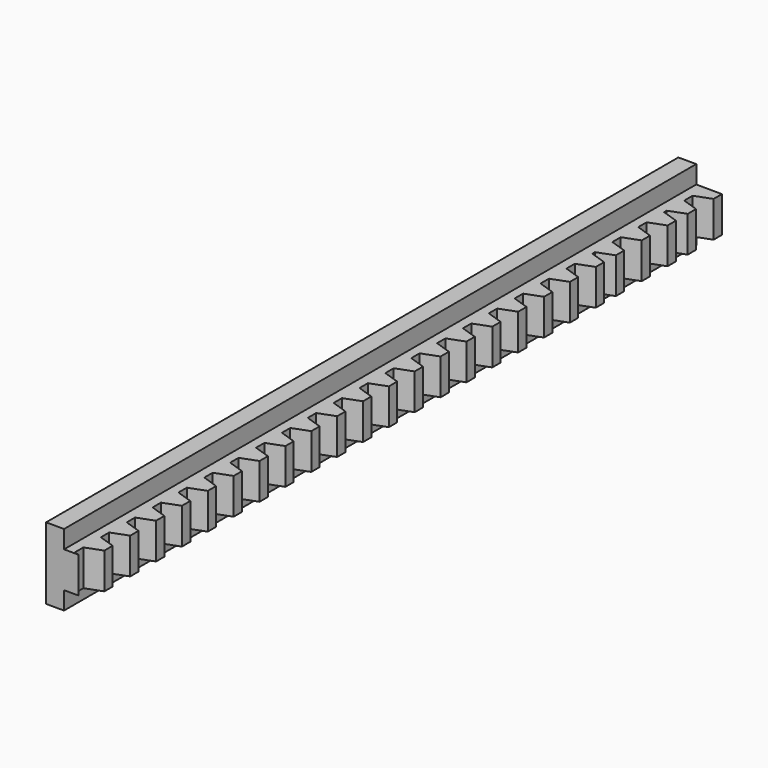
from build123d import *

# Parameters (mm, degrees)
F1_DEPTH = 10
F3_DEPTH = 5


with BuildPart() as f1:
    # F0 (on Top) → F1 (new body)
    with BuildSketch(Plane.XY):
        Polygon((7.192049, 114.375856), (0, 114.440956), (0, -105.559044), (4.02688, -105.559044), (2.692049, -105.109864), (2.692049, -102.209864), (7.192049, -100.524144), (7.192049, -97.624144), (2.692049, -96.109864), (2.692049, -93.209864), (7.192049, -91.524144), (7.192049, -88.624144), (2.692049, -87.109864), (2.692049, -84.209864), (7.192049, -82.524144), (7.192049, -79.624144), (2.692049, -78.109864), (2.692049, -75.209864), (7.192049, -73.524144), (7.192049, -70.624144), (2.692049, -69.109864), (2.692049, -66.209864), (7.192049, -64.524144), (7.192049, -61.624144), (2.692049, -60.109864), (2.692049, -57.209864), (7.192049, -55.524144), (7.192049, -52.624144), (2.692049, -51.109864), (2.692049, -48.209864), (7.192049, -46.524144), (7.192049, -43.624144), (2.692049, -42.109864), (2.692049, -39.209864), (7.192049, -37.524144), (7.192049, -34.624144), (2.692049, -33.109864), (2.692049, -30.209864), (7.192049, -28.524144), (7.192049, -25.624144), (2.692049, -24.109864), (2.692049, -21.209864), (7.192049, -19.524144), (7.192049, -16.624144), (2.692049, -15.109864), (2.692049, -12.209864), (7.192049, -10.524144), (7.192049, -7.624144), (2.692049, -6.109864), (2.692049, -3.209864), (7.192049, -1.524144), (7.192049, 1.375856), (2.692049, 2.890136), (2.692049, 5.790136), (7.192049, 7.475856), (7.192049, 10.375856), (2.692049, 11.890136), (2.692049, 14.790136), (7.192049, 16.475856), (7.192049, 19.375856), (2.692049, 20.890136), (2.692049, 23.790136), (7.192049, 25.475856), (7.192049, 28.375856), (2.692049, 29.890136), (2.692049, 32.790136), (7.192049, 34.475856), (7.192049, 37.375856), (2.692049, 38.890136), (2.692049, 41.790136), (7.192049, 43.475856), (7.192049, 46.375856), (2.692049, 47.890136), (2.692049, 50.790136), (7.192049, 52.475856), (7.192049, 55.375856), (2.692049, 56.890136), (2.692049, 59.790136), (7.192049, 61.475856), (7.192049, 64.375856), (2.692049, 65.890136), (2.692049, 68.790136), (7.192049, 70.475856), (7.192049, 73.375856), (2.692049, 74.890136), (2.692049, 75.790136), (7.192049, 77.475856), (7.192049, 80.375856), (2.692049, 81.890136), (2.692049, 84.790136), (7.192049, 86.475856), (7.192049, 89.375856), (2.692049, 90.890136), (2.692049, 93.790136), (7.192049, 95.475856), (7.192049, 98.375856), (2.692049, 99.890136), (2.692049, 100.790136), (7.192049, 102.475856), (7.192049, 105.375856), (2.692049, 106.890136), (2.692049, 109.790136), (7.192049, 111.475856), align=None)
    extrude(amount=F1_DEPTH)

    # F2 (on face) → F3 (join)
    with BuildSketch(Plane(origin=(0, 0, 0), x_dir=(0, -1, 0), z_dir=(-1, 0, 0))):
        Polygon((-114.440956, 15), (-114.440956, 5), (-114.440956, -5), (105.559044, -5), (105.559044, 5), (105.559044, 15), align=None)
    extrude(amount=F3_DEPTH)


solid = f1.part
